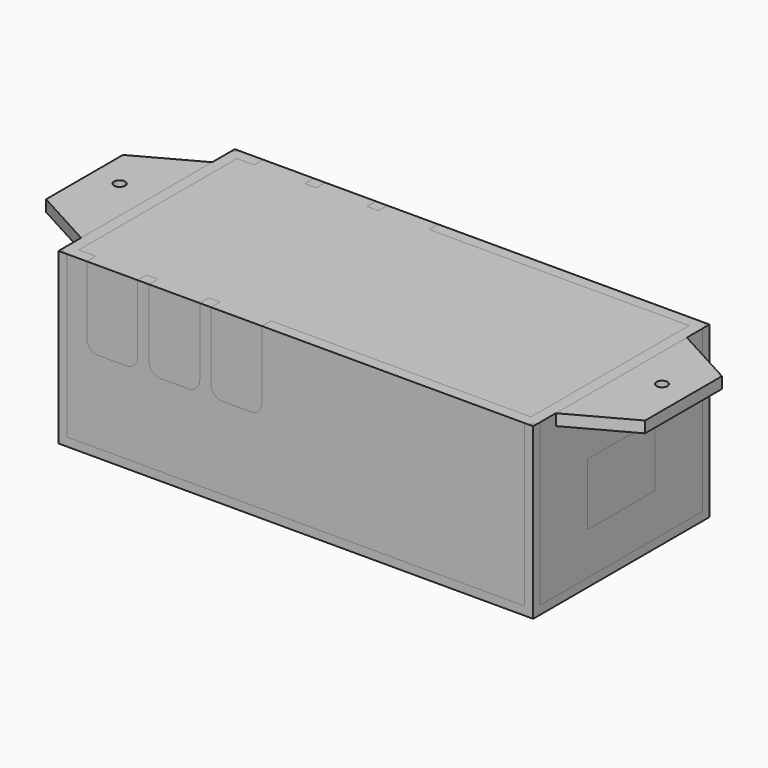
from build123d import *

# Parameters (mm, degrees)
SKETCH_W         = 84
SKETCH_H         = 39
EXTRUDE001_DEPTH = 30
EXTRUDE_DEPTH    = 30
SKETCH001_W      = 80
SKETCH001_H      = 35
POCKET_DEPTH     = 28
SKETCH002_W      = 15
SKETCH002_H      = 11
POCKET001_DEPTH  = 2
POCKET002_DEPTH  = 39.001
FILLET_R         = 1.5
SKETCH004_R      = 1
EXTRUDE002_DEPTH = 2


with BuildPart() as extrude001:
    # Sketch → Extrude001 (new body)
    with BuildSketch(Plane.XY):
        with Locations((42, 19.5)):
            Rectangle(SKETCH_W, SKETCH_H)
    extrude(amount=EXTRUDE001_DEPTH)


with BuildPart() as body001:
    # Sketch → Extrude (new body)
    with BuildSketch(Plane.XY):
        with Locations((42, 19.5)):
            Rectangle(SKETCH_W, SKETCH_H)
    extrude(amount=EXTRUDE_DEPTH)

    # Sketch001 (on Face6 of BaseFeature) → Pocket (cut)
    with BuildSketch(Plane.XY.offset(30)):
        with Locations((42, 19.5)):
            Rectangle(SKETCH001_W, SKETCH001_H)
    extrude(amount=-POCKET_DEPTH, mode=Mode.SUBTRACT)

    # Sketch002 (on Face3 of Pocket) → Pocket001 (cut)
    with BuildSketch(Plane.YZ.offset(84)):
        with Locations((19.5, 14.5)):
            Rectangle(SKETCH002_W, SKETCH002_H)
    extrude(amount=-POCKET001_DEPTH, mode=Mode.SUBTRACT)

    # Sketch003 (on Face1 of Pocket001) → Pocket002 (cut, through all)
    with BuildSketch(Plane.XZ):
        with BuildLine():
            Line((5, 30), (5, 18.000001))
            ThreePointArc((5, 18.000001), (5.585786, 16.585787), (7, 16))
            Line((7, 16), (12.000001, 16))
            ThreePointArc((12.000001, 16), (13.414214, 16.585787), (14, 18))
            Line((14, 18), (14, 30))
            Line((14, 30), (5, 30))
        make_face()
        with BuildLine():
            Line((16, 30), (16, 18.000001))
            ThreePointArc((16, 18.000001), (16.585786, 16.585786), (18.000001, 16))
            Line((18.000001, 16), (23.000001, 16))
            ThreePointArc((23.000001, 16), (24.414214, 16.585787), (25, 18))
            Line((25, 18), (25, 30))
            Line((25, 30), (16, 30))
        make_face()
        with BuildLine():
            Line((27, 30), (27, 18.000001))
            ThreePointArc((27, 18.000001), (27.585786, 16.585786), (29.000001, 16))
            Line((29.000001, 16), (34.000001, 16))
            ThreePointArc((34.000001, 16), (35.414214, 16.585787), (36, 18))
            Line((36, 18), (36, 30))
            Line((36, 30), (27, 30))
        make_face()
    extrude(amount=-POCKET002_DEPTH, mode=Mode.SUBTRACT)

    # Fillet
    fillet_edges = [body001.edges().sort_by_distance(p)[0] for p in [
        (0, 0, 15),
        (42, 0, 0),
        (0, 19.5, 0),
        (0, 39, 15),
        (42, 39, 0),
        (84, 39, 15),
        (84, 19.5, 0),
        (84, 0, 15),
    ]]
    fillet(fillet_edges, radius=FILLET_R)


with BuildPart() as extrude002:
    # Sketch004 (on Face2 of Fillet) → Extrude002 (new body)
    with BuildSketch(Plane.XY.offset(30)):
        Polygon((84, 34), (84, 5), (95, 11), (95, 28), align=None)
        with Locations((90, 21)):
            Circle(SKETCH004_R, mode=Mode.SUBTRACT)
        Polygon((0, 34), (0, 5), (-11, 11), (-11, 28), align=None)
        with Locations((-6, 21)):
            Circle(SKETCH004_R, mode=Mode.SUBTRACT)
    extrude(amount=-EXTRUDE002_DEPTH)


solid = Compound([extrude001.part, body001.part, extrude002.part])
